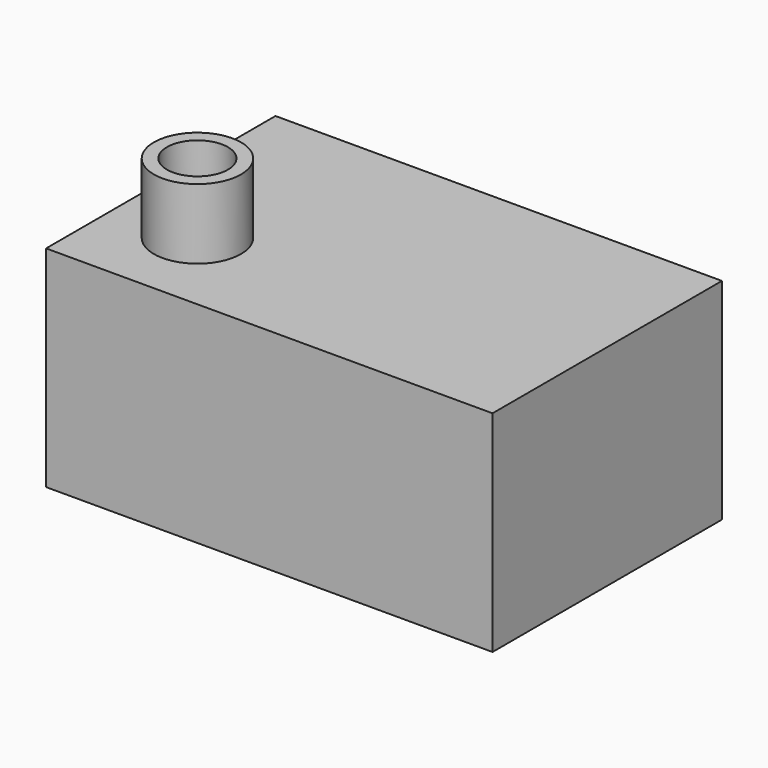
from build123d import *

# Parameters (mm, degrees)
F0_W     = 161.877722
F0_H     = 103.971594
F1_DEPTH = 76.2
F2_R     = 15.793855
F3_DEPTH = 25.4
F4_R     = 11.063024
F5_DEPTH = 12.7


with BuildPart() as f1:
    # F0 (on Top) → F1 (new body)
    with BuildSketch(Plane.XY):
        Rectangle(F0_W, F0_H)
    extrude(amount=F1_DEPTH)

    # F2 (on face) → F3 (join)
    with BuildSketch(Plane.XY.offset(76.2)):
        with Locations((-51.472373, -20.210665)):
            Circle(F2_R)
    extrude(amount=F3_DEPTH)

    # F4 (on face) → F5 (cut, symmetric)
    with BuildSketch(Plane.XY.offset(101.6)):
        with Locations((-51.472373, -20.210665)):
            Circle(F4_R)
    extrude(amount=-F5_DEPTH, both=True, mode=Mode.SUBTRACT)


solid = f1.part
